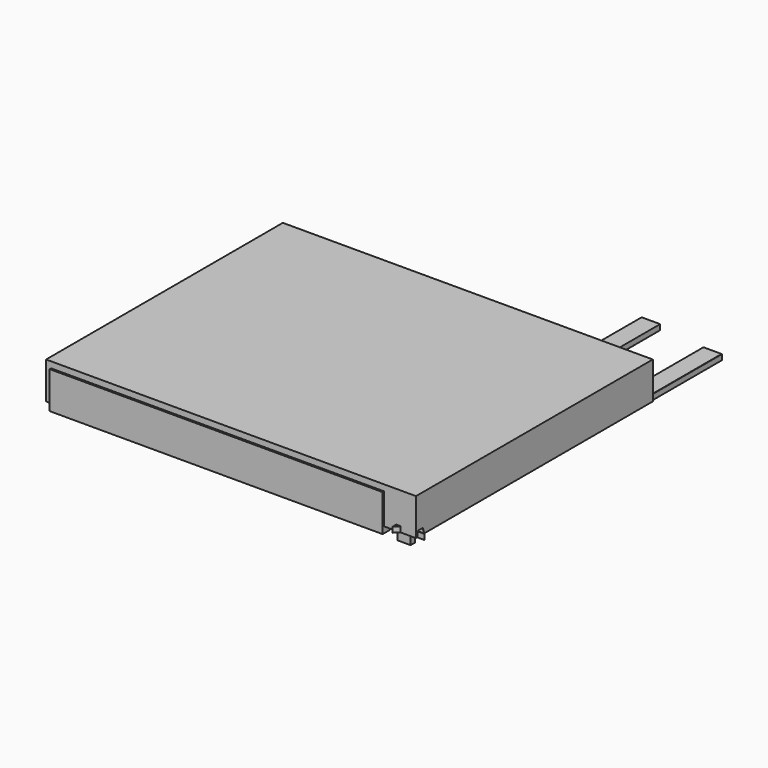
from build123d import *

# Parameters (mm, degrees)
F0_W      = 1800
F0_H      = 200
F1_DEPTH  = 50
F2_W      = 100
F2_H      = 2100
F3_DEPTH  = 30
F4_W      = 70
F4_H      = 230
F5_DEPTH  = 30
F6_W      = 2000
F6_H      = 1600
F7_DEPTH  = 200
F8_W      = 1800
F8_H      = 100
F9_DEPTH  = 30
F11_DEPTH = 34
F12_SIZE  = 1
F13_SIZE  = 1
F14_SIZE  = 1
F16_DEPTH = 35
F18_SIZE  = 1
F19_SIZE  = 1
F20_SIZE  = 1
F21_SIZE  = 1


with BuildPart() as f1:
    # F0 (on Front) → F1 (new body)
    with BuildSketch(Plane.XZ):
        with Locations((-1014.2641052604, 66.7036272585)):
            Rectangle(F0_W, F0_H)
    extrude(amount=F1_DEPTH)


with BuildPart() as f3:
    # F2 (on Top) → F3 (new body)
    with BuildSketch(Plane.XY):
        with Locations((0.7358856499, 986.5826621652)):
            Rectangle(F2_W, F2_H)
    extrude(amount=F3_DEPTH)

    # F15 (on face) → F16 (cut)
    with BuildSketch(Plane.XY.offset(30)):
        Polygon((50.7358856499, -63.4173378348), (50.7358856499, 36.5826621652), (-49.2641143501, -63.4173378348), align=None)
    extrude(amount=-F16_DEPTH, mode=Mode.SUBTRACT)


with BuildPart() as f5:
    # F4 (on Front) → F5 (new body)
    with BuildSketch(Plane.XZ):
        with Locations((-14.2641143501, 65.0100798905)):
            Rectangle(F4_W, F4_H)
    extrude(amount=F5_DEPTH)


with BuildPart() as f7:
    # F6 (on Top) → F7 (new body)
    with BuildSketch(Plane.XY):
        with Locations((-941.6633024812, 759.6270173788)):
            Rectangle(F6_W, F6_H)
    extrude(amount=F7_DEPTH)


with BuildPart() as f9:
    # F8 (on Top) → F9 (new body)
    with BuildSketch(Plane.XY):
        with Locations((-803.9213657379, 18.5181453824)):
            Rectangle(F8_W, F8_H)
    extrude(amount=F9_DEPTH)

    # F10 (on face) → F11 (cut)
    with BuildSketch(Plane.XY.offset(30)):
        Polygon((-1703.9213657379, -31.4818546176), (-1603.9213657379, 68.5181453824), (-1703.9213657379, 68.5181453824), (-1703.9213657379, 63.0305334926), align=None)
        Polygon((96.0786342621, 68.5181453824), (-3.9213657379, 68.5181453824), (96.0786342621, -31.4818546176), align=None)
    extrude(amount=-F11_DEPTH, mode=Mode.SUBTRACT)

    # F12
    f12_edges = [f9.edges().sort_by_distance(p)[0] for p in [
        (-1653.921366, 18.518145, 30),
        (46.078634, 18.518145, 30),
    ]]
    chamfer(f12_edges, length=F12_SIZE)

    # F13
    f13_edges = [f9.edges().sort_by_distance(p)[0] for p in [
        (-803.921366, 68.518145, 30),
    ]]
    chamfer(f13_edges, length=F13_SIZE)

    # F14
    f14_edges = [f9.edges().sort_by_distance(p)[0] for p in [
        (-803.921366, -31.481855, 30),
    ]]
    chamfer(f14_edges, length=F14_SIZE)


with BuildPart() as f17_1:
    # F17: copy of F3
    add(f3.part.moved(Location((-374, 50, 0))))

    # F20
    f20_edges = [f17_1.edges().sort_by_distance(p)[0] for p in [
        (-373.264114, 36.582662, 0),
        (-323.264114, 1086.582662, 0),
    ]]
    chamfer(f20_edges, length=F20_SIZE)

    # F21
    f21_edges = [f17_1.edges().sort_by_distance(p)[0] for p in [
        (-373.764114, 2086.582662, 0),
        (-423.264114, 1037.289769, 0),
    ]]
    chamfer(f21_edges, length=F21_SIZE)


with BuildPart() as f3_1:
    add(f3.part)

    # F18
    f18_edges = [f3_1.edges().sort_by_distance(p)[0] for p in [
        (50.735886, 1036.582662, 30),
        (0.735886, -13.417338, 30),
    ]]
    chamfer(f18_edges, length=F18_SIZE)

    # F19
    f19_edges = [f3_1.edges().sort_by_distance(p)[0] for p in [
        (-49.264114, 987.289769, 30),
        (0.235886, 2036.582662, 30),
    ]]
    chamfer(f19_edges, length=F19_SIZE)


solid = Compound([f1.part, f5.part, f7.part, f9.part, f17_1.part, f3_1.part])
